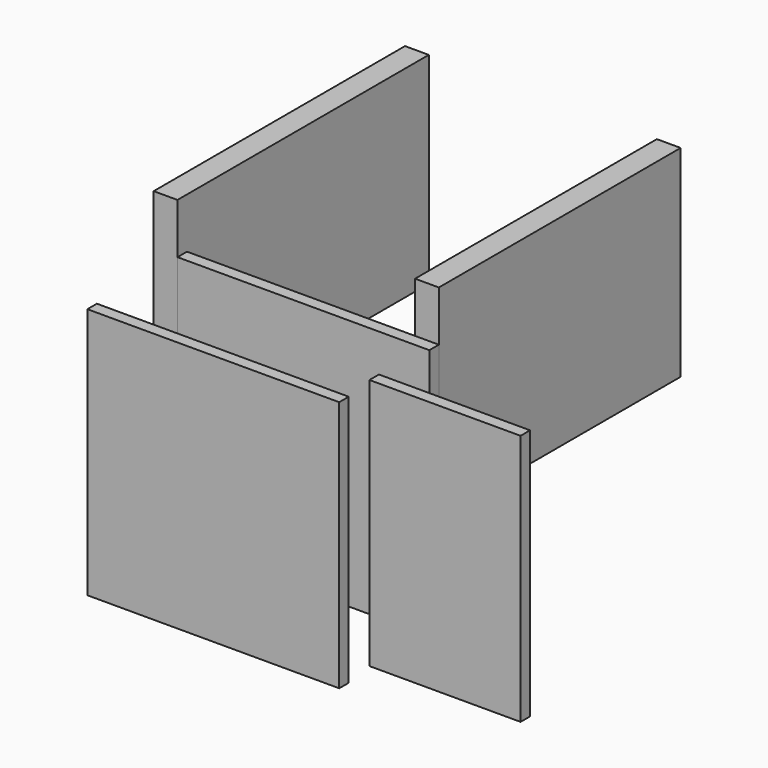
from build123d import *

# Parameters (mm, degrees)
F1_START  = 25.4
F1_DEPTH  = 50.8
F0_W      = 6
F0_H      = 76.2
F2_DEPTH  = 63.5
F3_W      = 38.1
F3_H      = 63.5
F4_DEPTH  = 3
F5_START  = 25.4
F2_FACE_W = 63.5
F2_FACE_H = 63.5
F5_DEPTH  = 3


with BuildPart() as f1:
    # F0 (on Top) → F1 (new body)
    with BuildSketch(Plane.XY.offset(F1_START)):
        Polygon((-63.5, -3), (-63.5, 0), (-63.5, 76.2), (-69.5, 76.2), (-69.5, -3), align=None)
    extrude(amount=F1_DEPTH)


with BuildPart() as f1b:
    # F0 (on Top) → F1, piece 2 (new body)
    with BuildSketch(Plane.XY.offset(F1_START)):
        with Locations((-3, 38.1)):
            Rectangle(F0_W, F0_H)
    extrude(amount=F1_DEPTH)


with BuildPart() as f2:
    # F0 (on Top) → F2 (new body)
    with BuildSketch(Plane.XY):
        Polygon((0, -3), (0, 0), (-6, 0), (-63.5, 0), (-63.5, -3), align=None)
    extrude(amount=F2_DEPTH)


with BuildPart() as f4:
    # F3 (on face) → F4 (new body)
    with BuildSketch(Plane.XZ.offset(3)):
        with Locations((6.35, 22.225)):
            Rectangle(F3_W, F3_H)
    extrude(amount=F4_DEPTH)


with BuildPart() as f5:
    # F2_face (on face) → F5 (new body)
    with BuildSketch(Plane(origin=(-31.75, -3, 31.75), x_dir=(1, 0, 0), z_dir=(0, -1, 0)).offset(F5_START)):
        Rectangle(F2_FACE_W, F2_FACE_H)
    extrude(amount=F5_DEPTH)


solid = Compound([f1.part, f1b.part, f2.part, f4.part, f5.part])
